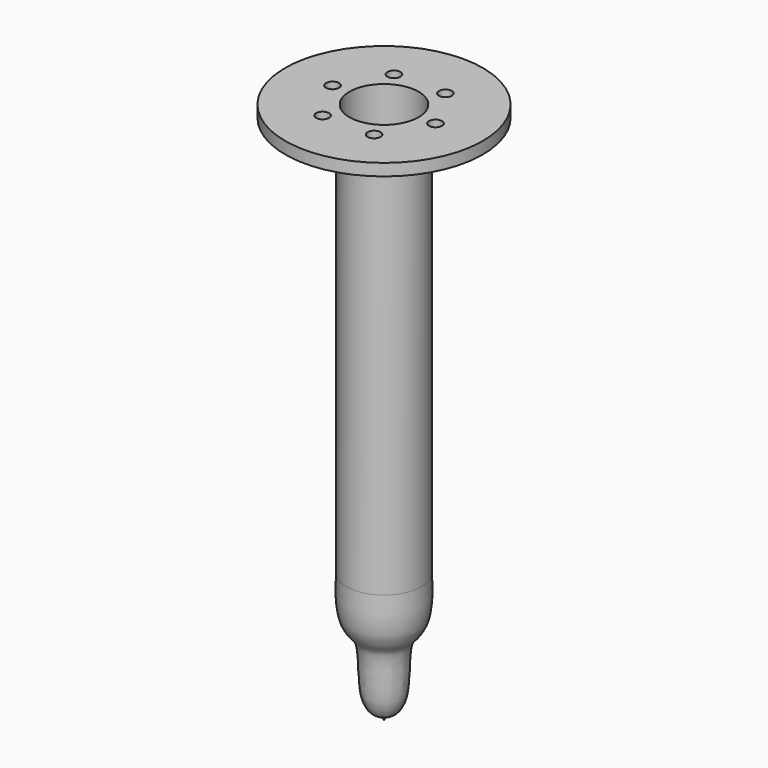
from build123d import *

# Parameters (mm, degrees)
CYLINDER_R     = 60
CYLINDER_DEPTH = 200
ARRAY_COUNT    = 6


with BuildPart() as array:
    # Cylinder → Cylinder (new body)
    with BuildSketch(Plane(origin=(474, 0, 4850), x_dir=(1, 0, 0), z_dir=(0, 0, 1))):
        Circle(CYLINDER_R)
    extrude(amount=CYLINDER_DEPTH)

    # Array: Array ×6 about axis
    array_axis = Axis((0, 0, 0), (0, 0, 1))


with BuildPart() as array_1:
    add(array.part)
    for i in range(1, ARRAY_COUNT):
        add(array.part.rotate(array_axis, i * 360 / ARRAY_COUNT))


with BuildPart() as cut:
    # Sketch001 → Revolve (revolve)
    with BuildSketch(Plane.YZ):
        with BuildLine():
            Line((175.531298, 1234.964661), (175.531298, 838.896223))
            add(Edge.make_bspline(
                [(175.531298, 838.896223), (181.08812, 640.850952), (191.457153, 118.73481), (96.230034, 91.132751), (0, 39.215012)],
                knots=[0, 0, 0, 0, 0.5, 1, 1, 1, 1], degree=3))
            Line((0, 39.215012), (0, 0))
            add(Edge.make_bspline(
                [(345.195616, 1207.39), (366.074402, 888.39978), (257.766388, 696.219971), (185.093399, 681.136902), (192.120087, 219.660782), (98.974434, 54.279652), (1.910132, 55.437233), (0, 0)],
                knots=[0, 0, 0, 0, 0.2, 0.4, 0.6, 0.8, 1, 1, 1, 1], degree=3))
            Line((345.195616, 1207.39), (345.195616, 4779.104137))
            ThreePointArc((345.195616, 4779.104137), (371.556006, 4842.743748), (435.195616, 4869.104137))
            Line((435.195616, 4869.104137), (445.195616, 4869.104137))
            Line((445.195616, 4869.104137), (445.195616, 4896.42334))
            Line((445.195616, 4896.42334), (910.486572, 4896.42334))
            Line((910.486572, 4896.42334), (910.486572, 5006.42334))
            Line((910.486572, 5006.42334), (318.538391, 5006.42334))
            Line((318.538391, 5006.42334), (318.538391, 1234.964661))
            Line((318.538391, 1234.964661), (175.531298, 1234.964661))
        make_face()
    revolve(axis=Axis((0, 0, 0), (0, 0, 1)))

    # Cut: cut Array
    add(array_1.part, mode=Mode.SUBTRACT)


solid = cut.part
